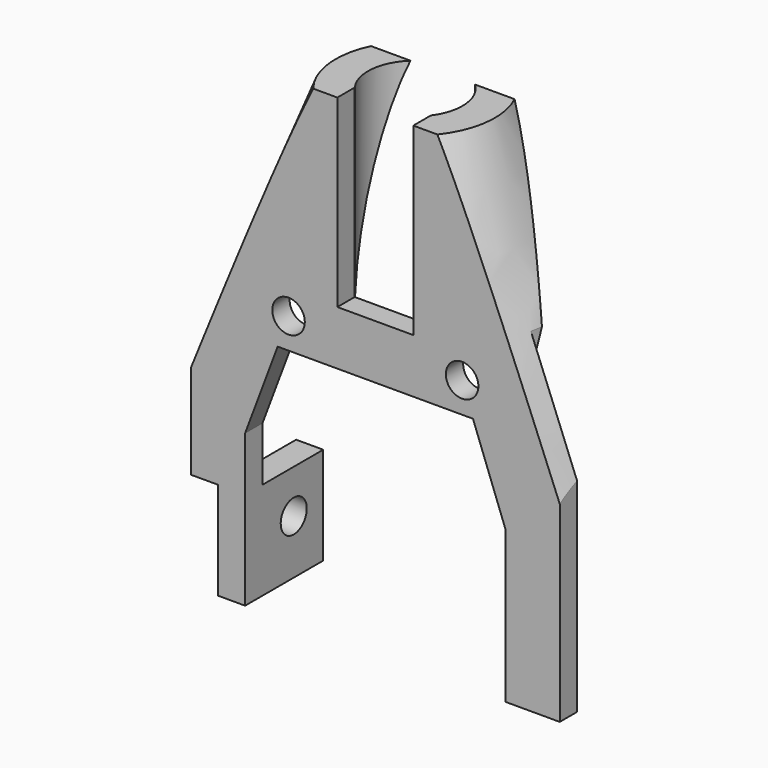
from build123d import *

# Parameters (mm, degrees)
CYLINDER399_R          = 21
CYLINDER399_DEPTH      = 9
BOX330_W               = 26
BOX330_H               = 12
BOX330_DEPTH           = 20
BOX331_W               = 26
BOX331_H               = 15
BOX331_DEPTH           = 25
BOX331_PLACEMENT_ANGLE = 18
CYLINDER407_R          = 4.35
CYLINDER407_DEPTH      = 17
CYLINDER406_R          = 13
CYLINDER406_DEPTH      = 17
CYLINDER403_R          = 1.5
CYLINDER403_DEPTH      = 10
BOX329_W               = 2.5
BOX329_H               = 9
BOX329_DEPTH           = 9
BOX317_W               = 7
BOX317_H               = 2
BOX317_DEPTH           = 17
CYLINDER401_R          = 1.5
CYLINDER401_DEPTH      = 5
CYLINDER397_R          = 1.5
CYLINDER397_DEPTH      = 5
BOX316_W               = 3
BOX316_H               = 2
BOX316_DEPTH           = 9
BOX322_W               = 24
BOX322_H               = 6
BOX322_DEPTH           = 22
CHAMFER_1_SIZE2        = 3
CHAMFER_1_SIZE         = 8
CHAMFER_2_SIZE2        = 3
CHAMFER_2_SIZE         = 8
BOX324_W               = 34
BOX324_H               = 2
BOX324_DEPTH           = 44


with BuildPart() as cone005:
    # Cone004 → Cone004 (revolve)
    with BuildSketch(Plane(origin=(0, 0, 85), x_dir=(1, 0, 0), z_dir=(0, -1, 0))):
        Polygon((0, 0), (21, 0), (5, 41), (0, 41), align=None)
    revolve(axis=Axis((0, 0, 85), (0, 0, 1)))


with BuildPart() as fusion077:
    # Cylinder399 → Cylinder399 (new body)
    with BuildSketch(Plane.XY.offset(76)):
        Circle(CYLINDER399_R)
    extrude(amount=CYLINDER399_DEPTH)

    # Fusion077: union Cone005
    add(cone005.part)


with BuildPart() as cube306:
    # Box330 → Box330 (new body)
    with BuildSketch(Plane(origin=(-13, -14.6, 101), x_dir=(1, 0, 0), z_dir=(0, 0, 1))):
        with Locations((13, 6)):
            Rectangle(BOX330_W, BOX330_H)
    extrude(amount=BOX330_DEPTH)


with BuildPart() as cube307:
    # Box331 → Box331 (new body)
    with BuildSketch(Plane.XY):
        with Locations((13, 7.5)):
            Rectangle(BOX331_W, BOX331_H)
    extrude(amount=BOX331_DEPTH)


with BuildPart() as cube307_1:
    # Box331 placement: moved
    add(cube307.part.moved(Location((-13, -3, 101))).rotate(Axis((-13, -3, 101), (-1, 0, 0)), BOX331_PLACEMENT_ANGLE))


with BuildPart() as cylinder407:
    # Cylinder407 → Cylinder407 (new body)
    with BuildSketch(Plane.XY.offset(103)):
        Circle(CYLINDER407_R)
    extrude(amount=CYLINDER407_DEPTH)


with BuildPart() as antenna_support_carrier:
    # Cylinder406 → Cylinder406 (new body)
    with BuildSketch(Plane.XY.offset(103)):
        Circle(CYLINDER406_R)
    extrude(amount=CYLINDER406_DEPTH)

    # Cut220: cut Cylinder407
    add(cylinder407.part, mode=Mode.SUBTRACT)

    # Cut221: cut Cube307
    add(cube307_1.part, mode=Mode.SUBTRACT)

    # Cut216: cut Cube306
    add(cube306.part, mode=Mode.SUBTRACT)


with BuildPart() as cylinder403:
    # Cylinder403 → Cylinder403 (new body)
    with BuildSketch(Plane(origin=(-20, 1, 72), x_dir=(0, 0, -1), z_dir=(1, 0, 0))):
        Circle(CYLINDER403_R)
    extrude(amount=CYLINDER403_DEPTH)


with BuildPart() as cut223:
    # Box329 → Box329 (new body)
    with BuildSketch(Plane(origin=(-14.5, -4.6, 67), x_dir=(1, 0, 0), z_dir=(0, 0, 1))):
        with Locations((1.25, 4.5)):
            Rectangle(BOX329_W, BOX329_H)
    extrude(amount=BOX329_DEPTH)

    # Cut223: cut Cylinder403
    add(cylinder403.part, mode=Mode.SUBTRACT)


with BuildPart() as cut223_1:
    # Cut223 placement: moved
    add(cut223.part.moved(Location((0, 0, 9))))


with BuildPart() as cube293:
    # Box317 → Box317 (new body)
    with BuildSketch(Plane(origin=(-3.5, -4.6, 103), x_dir=(1, 0, 0), z_dir=(0, 0, 1))):
        with Locations((3.5, 1)):
            Rectangle(BOX317_W, BOX317_H)
    extrude(amount=BOX317_DEPTH)


with BuildPart() as cylinder401:
    # Cylinder401 → Cylinder401 (new body)
    with BuildSketch(Plane(origin=(-8, 0, 100.8), x_dir=(1, 0, 0), z_dir=(0, -1, 0))):
        Circle(CYLINDER401_R)
    extrude(amount=CYLINDER401_DEPTH)


with BuildPart() as screwholes002:
    # Cylinder397 → Cylinder397 (new body)
    with BuildSketch(Plane(origin=(8, 0, 100.8), x_dir=(1, 0, 0), z_dir=(0, -1, 0))):
        Circle(CYLINDER397_R)
    extrude(amount=CYLINDER397_DEPTH)

    # Compound200: union Cylinder401
    add(cylinder401.part)


with BuildPart() as cube292:
    # Box316 → Box316 (new body)
    with BuildSketch(Plane(origin=(-17.5, -4.6, 76), x_dir=(1, 0, 0), z_dir=(0, 0, 1))):
        with Locations((1.5, 1)):
            Rectangle(BOX316_W, BOX316_H)
    extrude(amount=BOX316_DEPTH)


with BuildPart() as cut_outs001:
    # Box322 → Box322 (new body)
    with BuildSketch(Plane(origin=(-12, -4.6, 76), x_dir=(1, 0, 0), z_dir=(0, 0, 1))):
        with Locations((12, 3)):
            Rectangle(BOX322_W, BOX322_H)
    extrude(amount=BOX322_DEPTH)

    # Chamfer 1
    chamfer_1_edges = [cut_outs001.edges().sort_by_distance(p)[0] for p in [
        (12, -1.6, 98),
    ]]
    chamfer_1_side = cut_outs001.faces().sort_by_distance((12, -1.6, 87))[0]
    chamfer(chamfer_1_edges, length=CHAMFER_1_SIZE, length2=CHAMFER_1_SIZE2, reference=chamfer_1_side)

    # Chamfer 2
    chamfer_2_edges = [cut_outs001.edges().sort_by_distance(p)[0] for p in [
        (-12, -1.6, 98),
    ]]
    chamfer_2_side = cut_outs001.faces().sort_by_distance((-12, -1.6, 87))[0]
    chamfer(chamfer_2_edges, length=CHAMFER_2_SIZE, length2=CHAMFER_2_SIZE2, reference=chamfer_2_side)

    # Fusion085: union Cube293, Screwholes002, Cube292
    add(cube293.part)
    add(screwholes002.part)
    add(cube292.part)


with BuildPart() as obj1:
    # Box324 → Box324 (new body)
    with BuildSketch(Plane(origin=(-17, -4.6, 76), x_dir=(1, 0, 0), z_dir=(0, 0, 1))):
        with Locations((17, 1)):
            Rectangle(BOX324_W, BOX324_H)
    extrude(amount=BOX324_DEPTH)

    # Cut225: cut cut-outs001
    add(cut_outs001.part, mode=Mode.SUBTRACT)

    # Fusion086: union Antenna support carrier, Cut223
    add(antenna_support_carrier.part)
    add(cut223_1.part)

    # Common006: intersect Fusion077
    add(fusion077.part, mode=Mode.INTERSECT)


solid = obj1.part
